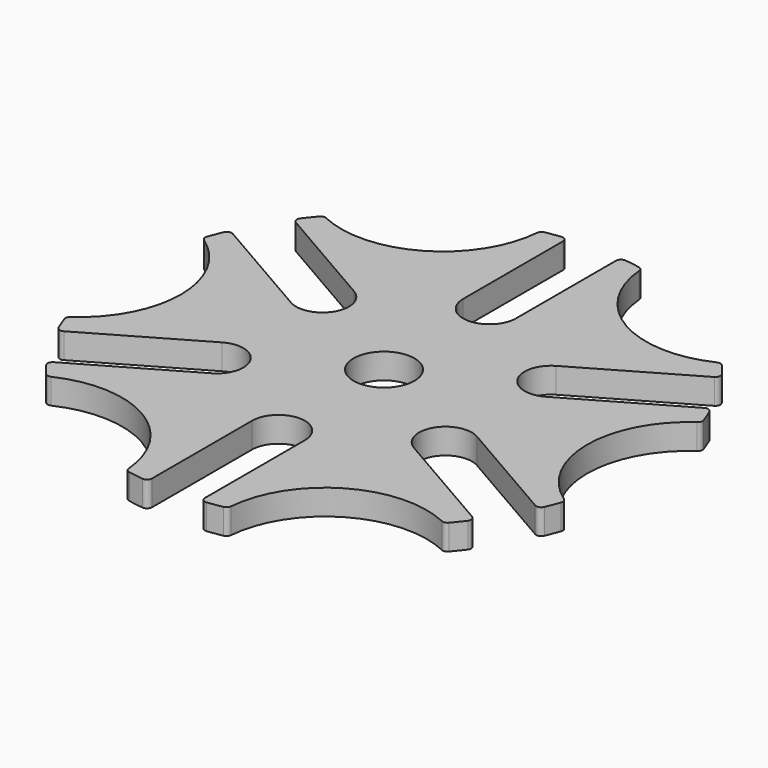
from build123d import *

# Parameters (mm, degrees)
F0_R     = 3
F1_DEPTH = 2.5
F2_R     = 0.5


with BuildPart() as f1:
    # F0 (on Top) → F1 (new body)
    with BuildSketch(Plane.XY):
        with BuildLine():
            Line((9.95, 8.746857), (21.08705, 15.176835))
            ThreePointArc((21.08705, 15.176835), (20.351653, 16.14962), (19.571419, 17.086824))
            ThreePointArc((19.571419, 17.086824), (10, 17.320508), (5.011914, 25.492758))
            ThreePointArc((5.011914, 25.492758), (3.810154, 25.699858), (2.6, 25.850338))
            Line((2.6, 25.850338), (2.6, 12.990381))
            ThreePointArc((2.6, 12.990381), (0, 10.390381), (-2.6, 12.990381))
            Line((-2.6, 12.990381), (-2.6, 25.850338))
            ThreePointArc((-2.6, 25.850338), (-3.810154, 25.699858), (-5.011914, 25.492758))
            ThreePointArc((-5.011914, 25.492758), (-10, 17.320508), (-19.571419, 17.086824))
            ThreePointArc((-19.571419, 17.086824), (-20.351653, 16.14962), (-21.08705, 15.176835))
            Line((-21.08705, 15.176835), (-9.95, 8.746857))
            ThreePointArc((-9.95, 8.746857), (-8.998334, 5.195191), (-12.55, 4.243524))
            Line((-12.55, 4.243524), (-23.68705, 10.673503))
            ThreePointArc((-23.68705, 10.673503), (-24.161807, 9.550239), (-24.583333, 8.405934))
            ThreePointArc((-24.583333, 8.405934), (-20, 0), (-24.583333, -8.405934))
            ThreePointArc((-24.583333, -8.405934), (-24.161807, -9.550239), (-23.68705, -10.673503))
            Line((-23.68705, -10.673503), (-12.55, -4.243524))
            ThreePointArc((-12.55, -4.243524), (-8.998334, -5.195191), (-9.95, -8.746857))
            Line((-9.95, -8.746857), (-21.08705, -15.176835))
            ThreePointArc((-21.08705, -15.176835), (-20.351653, -16.14962), (-19.571419, -17.086824))
            ThreePointArc((-19.571419, -17.086824), (-10, -17.320508), (-5.011914, -25.492758))
            ThreePointArc((-5.011914, -25.492758), (-3.810154, -25.699858), (-2.6, -25.850338))
            Line((-2.6, -25.850338), (-2.6, -12.990381))
            ThreePointArc((-2.6, -12.990381), (0, -10.390381), (2.6, -12.990381))
            Line((2.6, -12.990381), (2.6, -25.850338))
            ThreePointArc((2.6, -25.850338), (3.810154, -25.699858), (5.011914, -25.492758))
            ThreePointArc((5.011914, -25.492758), (10, -17.320508), (19.571419, -17.086824))
            ThreePointArc((19.571419, -17.086824), (20.351653, -16.14962), (21.08705, -15.176835))
            Line((21.08705, -15.176835), (9.95, -8.746857))
            ThreePointArc((9.95, -8.746857), (8.998334, -5.195191), (12.55, -4.243524))
            Line((12.55, -4.243524), (23.68705, -10.673503))
            ThreePointArc((23.68705, -10.673503), (24.161807, -9.550239), (24.583333, -8.405934))
            ThreePointArc((24.583333, -8.405934), (20, 0), (24.583333, 8.405934))
            ThreePointArc((24.583333, 8.405934), (24.161807, 9.550239), (23.68705, 10.673503))
            Line((23.68705, 10.673503), (12.55, 4.243524))
            ThreePointArc((12.55, 4.243524), (8.998334, 5.195191), (9.95, 8.746857))
        make_face()
        Circle(F0_R, mode=Mode.SUBTRACT)
    extrude(amount=F1_DEPTH)

    # F2
    f2_edges = [f1.edges().sort_by_distance(p)[0] for p in [
        (23.68705, -10.673503, 1.25),
        (21.08705, -15.176835, 1.25),
        (24.583333, -8.405934, 1.25),
        (19.571419, -17.086824, 1.25),
        (5.011914, -25.492758, 1.25),
        (2.6, -25.850338, 1.25),
        (-2.6, -25.850338, 1.25),
        (-5.011914, -25.492758, 1.25),
        (-21.08705, -15.176835, 1.25),
        (-19.571419, -17.086824, 1.25),
        (-23.68705, -10.673503, 1.25),
        (-24.583333, -8.405934, 1.25),
        (-23.68705, 10.673503, 1.25),
        (-24.583333, 8.405934, 1.25),
        (-21.08705, 15.176835, 1.25),
        (-19.571419, 17.086824, 1.25),
        (-5.011914, 25.492758, 1.25),
        (-2.6, 25.850338, 1.25),
        (2.6, 25.850338, 1.25),
        (5.011914, 25.492758, 1.25),
        (21.08705, 15.176835, 1.25),
        (19.571419, 17.086824, 1.25),
        (23.68705, 10.673503, 1.25),
        (24.583333, 8.405934, 1.25),
    ]]
    fillet(f2_edges, radius=F2_R)


solid = f1.part
